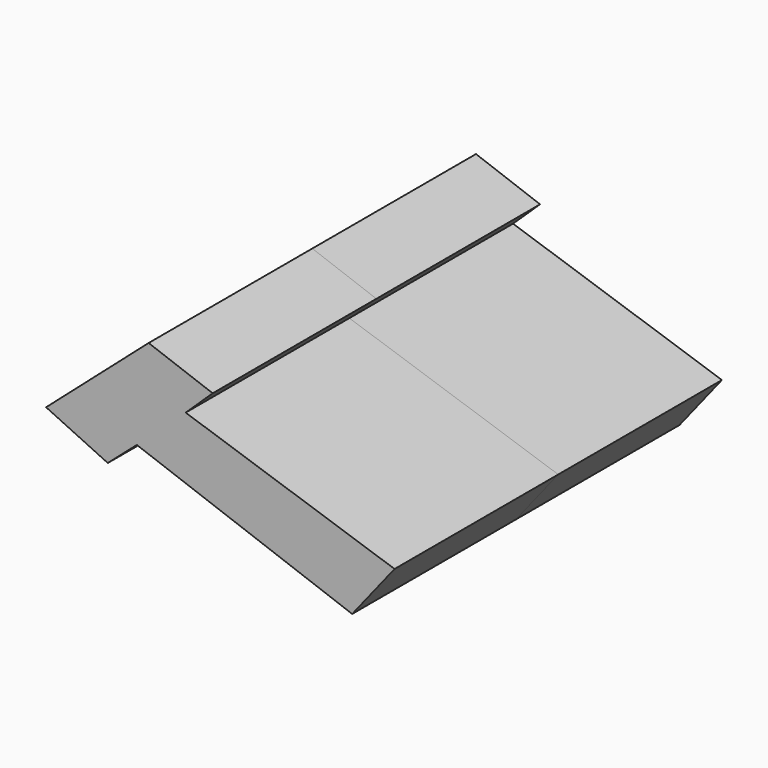
from build123d import *

# Parameters (mm, degrees)
F1_DEPTH = 38.1
F2_DEPTH = 38.1


with BuildPart() as f1:
    # F0 (on Front) → F1 (new body)
    with BuildSketch(Plane.XZ):
        Polygon((-79.132296, 32.102198), (-98.229534, 15.355393), (-86.738337, 9.947769), (-81.33071, 14.67944), (-41.233121, 0), (-33.338066, 9.947769), (-72.229794, 22.930225), (-67.206356, 27.736197), align=None)
    extrude(amount=F1_DEPTH)

    # F1_face (on face) → F2 (join)
    with BuildSketch(Plane(origin=(-66.778479, -38.1, 15.375638), x_dir=(1, 0, 0), z_dir=(0, -1, 0))):
        Polygon((-5.451315, 7.554588), (-0.427878, 12.36056), (-12.353817, 16.726561), (-31.451055, -0.020245), (-19.959858, -5.427868), (-14.552231, -0.696198), (25.545358, -15.375638), (33.440413, -5.427868), align=None)
    extrude(amount=F2_DEPTH)


solid = f1.part
